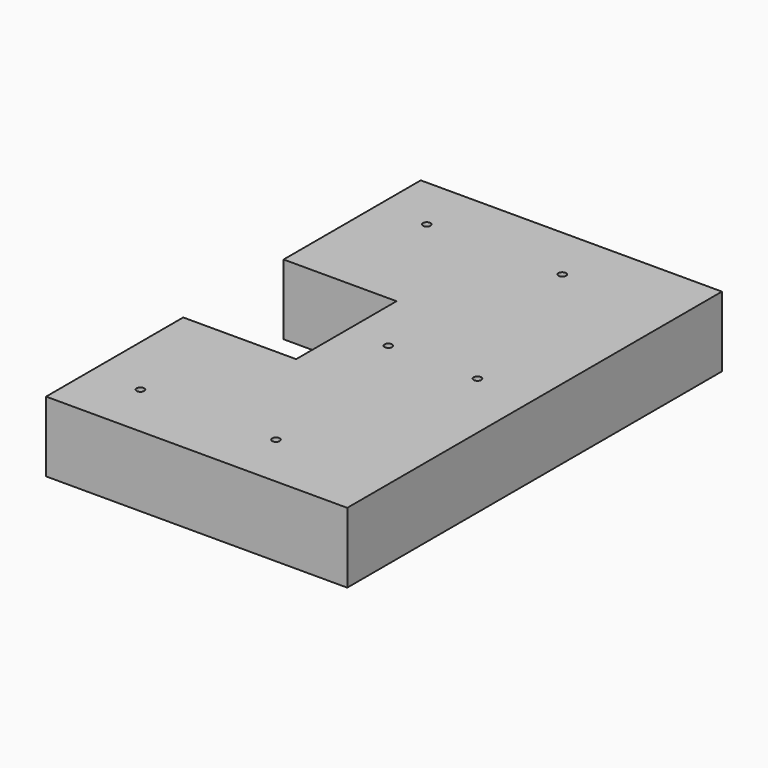
from build123d import *

# Parameters (mm, degrees)
SKETCH_W         = 120
SKETCH_H         = 28
PAD_DEPTH        = 93.3
SKETCH001_R      = 1.5
POCKET_DEPTH     = 10
HOLE_D           = 3
HOLE_CBORE_D     = 10
HOLE_CBORE_DEPTH = 5
SKETCH003_W      = 45
SKETCH003_H      = 50
POCKET001_DEPTH  = 28.001


with BuildPart() as part:
    # Sketch → Pad (new body, symmetric)
    with BuildSketch(Plane.XZ):
        Rectangle(SKETCH_W, SKETCH_H)
    extrude(amount=PAD_DEPTH, both=True)

    # Sketch001 (on Face1 of Pad) → Pocket (cut)
    with BuildSketch(Plane(origin=(0, 0, 14), x_dir=(-1, 0, 0), z_dir=(0, 0, 1))):
        with Locations((-37.25, 0)):
            Circle(SKETCH001_R)
        with Locations((-1.75, 0)):
            Circle(SKETCH001_R)
    extrude(amount=-POCKET_DEPTH, mode=Mode.SUBTRACT)

    # Hole (through all)
    with Locations(Plane(origin=(0, 0, -14), x_dir=(1, 0, 0), z_dir=(0, 0, -1))):
        with Locations((-40, 71.3), (14, 71.3), (14, -71.3), (-40, -71.3)):
            CounterBoreHole(HOLE_D / 2, HOLE_CBORE_D / 2, HOLE_CBORE_DEPTH)

    # Sketch003 (on Face1 of Hole) → Pocket001 (cut, through all)
    with BuildSketch(Plane(origin=(0, 0, 14), x_dir=(-1, 0, 0), z_dir=(0, 0, 1))):
        with Locations((37.5, 0)):
            Rectangle(SKETCH003_W, SKETCH003_H)
    extrude(amount=-POCKET001_DEPTH, mode=Mode.SUBTRACT)


solid = part.part
